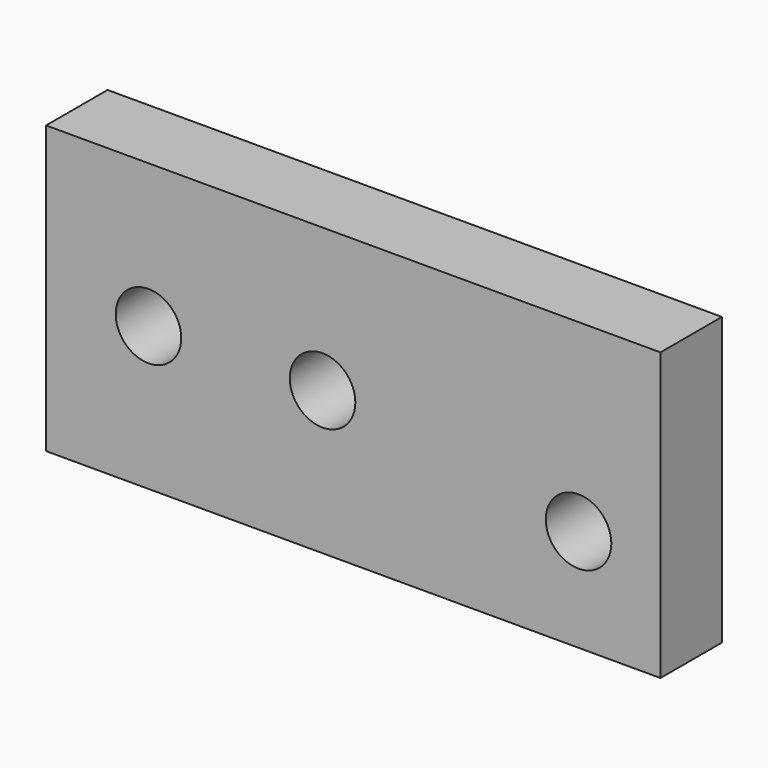
from build123d import *

# Parameters (mm, degrees)
CYLINDER875_R          = 1.6
CYLINDER875_DEPTH      = 20
CYLINDER875_ROLL_ANGLE = 90
CYLINDER876_R          = 1.6
CYLINDER876_DEPTH      = 20
CYLINDER876_ROLL_ANGLE = 90
CYLINDER874_R          = 1.6
CYLINDER874_DEPTH      = 20
CYLINDER874_ROLL_ANGLE = 90
BOX544_W               = 30
BOX544_H               = 3.75
BOX544_DEPTH           = 14


with BuildPart() as cylinder1036:
    # Cylinder875 → Cylinder875 (new body)
    with BuildSketch(Plane.XY):
        Circle(CYLINDER875_R)
    extrude(amount=CYLINDER875_DEPTH)


with BuildPart() as cylinder1036_1:
    # Cylinder875 roll: moved
    add(cylinder1036.part.rotate(Axis((0, 0, 0), (1, 0, 0)), CYLINDER875_ROLL_ANGLE))


with BuildPart() as cylinder1036_2:
    # Cylinder875 placement: moved
    add(cylinder1036_1.part.moved(Location((49.5, 56.5, -13))))


with BuildPart() as cylinder1037:
    # Cylinder876 → Cylinder876 (new body)
    with BuildSketch(Plane.XY):
        Circle(CYLINDER876_R)
    extrude(amount=CYLINDER876_DEPTH)


with BuildPart() as cylinder1037_1:
    # Cylinder876 roll: moved
    add(cylinder1037.part.rotate(Axis((0, 0, 0), (1, 0, 0)), CYLINDER876_ROLL_ANGLE))


with BuildPart() as cylinder1037_2:
    # Cylinder876 placement: moved
    add(cylinder1037_1.part.moved(Location((37, 56.5, -11))))


with BuildPart() as fusion562:
    # Cylinder874 → Cylinder874 (new body)
    with BuildSketch(Plane.XY):
        Circle(CYLINDER874_R)
    extrude(amount=CYLINDER874_DEPTH)


with BuildPart() as fusion562_1:
    # Cylinder874 roll: moved
    add(fusion562.part.rotate(Axis((0, 0, 0), (1, 0, 0)), CYLINDER874_ROLL_ANGLE))


with BuildPart() as fusion562_2:
    # Cylinder874 placement: moved
    add(fusion562_1.part.moved(Location((28.5, 56.5, -11))))

    # Fusion562: union Cylinder1036, Cylinder1037
    add(cylinder1036_2.part)
    add(cylinder1037_2.part)


with BuildPart() as obj1:
    # Box544 → Box544 (new body)
    with BuildSketch(Plane(origin=(23.5, 49.75, -18), x_dir=(1, 0, 0), z_dir=(0, 0, 1))):
        with Locations((15, 1.875)):
            Rectangle(BOX544_W, BOX544_H)
    extrude(amount=BOX544_DEPTH)

    # Cut668: cut Fusion562
    add(fusion562_2.part, mode=Mode.SUBTRACT)


solid = obj1.part
